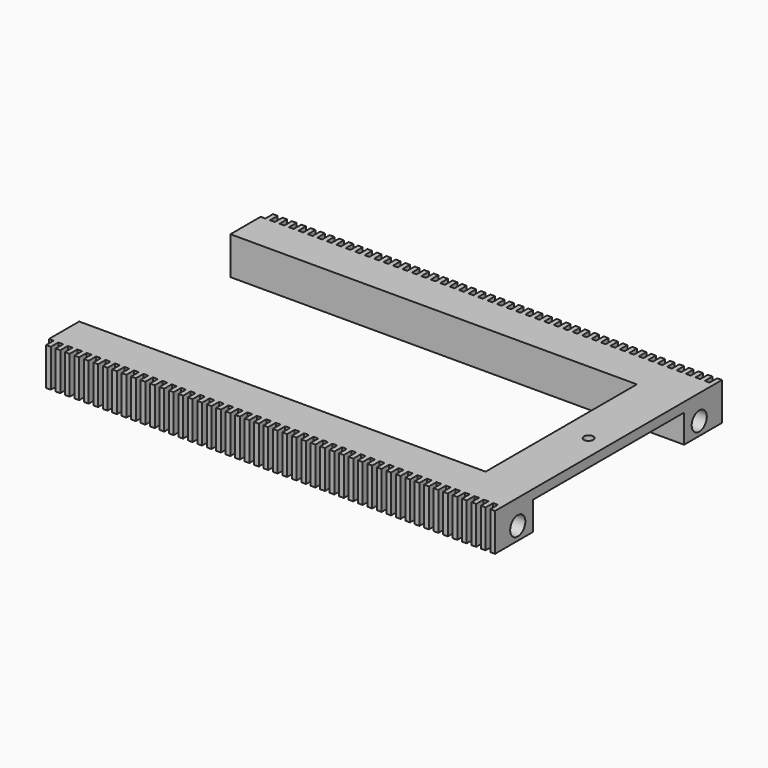
from build123d import *

# Parameters (mm, degrees)
F0_W     = 304.8
F0_H     = 190.5
F0_W_2   = 266.7
F0_H_2   = 127
F1_DEPTH = 6.35
F2_W     = 31.75
F2_H     = 19.05
F2_R     = 6.35
F3_DEPTH = 304.8
F4_W     = 3.175
F4_H     = 6.35
F5_DEPTH = 25.401
F6_R     = 3.175
F7_DEPTH = 25.401
F8_W     = 6.35
F8_H     = 127
F9_DEPTH = 25.401


with BuildPart() as f1:
    # F0 (on Top) → F1 (new body)
    with BuildSketch(Plane.XY):
        with Locations((152.4, 95.25)):
            Rectangle(F0_W, F0_H)
        with Locations((139.7, 95.25)):
            Rectangle(F0_W_2, F0_H_2, mode=Mode.SUBTRACT)
    extrude(amount=F1_DEPTH)

    # F2 (on face) → F3 (join, through all)
    with BuildSketch(Plane.YZ.offset(304.8)):
        with Locations((15.875, -9.525)):
            Rectangle(F2_W, F2_H)
        with Locations((19.05, -10.16)):
            Circle(F2_R, mode=Mode.SUBTRACT)
        with Locations((174.625, -9.525)):
            Rectangle(F2_W, F2_H)
        with Locations((171.45, -10.16)):
            Circle(F2_R, mode=Mode.SUBTRACT)
    extrude(amount=-F3_DEPTH)

    # F4 (on face) → F5 (cut, through all)
    with BuildSketch(Plane.XY.offset(6.35)):
        with Locations((1.5875, 187.325)):
            Rectangle(F4_W, F4_H)
        with Locations((7.9375, 187.325)):
            Rectangle(F4_W, F4_H)
        with Locations((14.2875, 187.325)):
            Rectangle(F4_W, F4_H)
        with Locations((20.6375, 187.325)):
            Rectangle(F4_W, F4_H)
        with Locations((26.9875, 187.325)):
            Rectangle(F4_W, F4_H)
        with Locations((33.3375, 187.325)):
            Rectangle(F4_W, F4_H)
        with Locations((39.6875, 187.325)):
            Rectangle(F4_W, F4_H)
        with Locations((46.0375, 187.325)):
            Rectangle(F4_W, F4_H)
        with Locations((52.3875, 187.325)):
            Rectangle(F4_W, F4_H)
        with Locations((58.7375, 187.325)):
            Rectangle(F4_W, F4_H)
        with Locations((65.0875, 187.325)):
            Rectangle(F4_W, F4_H)
        with Locations((71.4375, 187.325)):
            Rectangle(F4_W, F4_H)
        with Locations((77.7875, 187.325)):
            Rectangle(F4_W, F4_H)
        with Locations((84.1375, 187.325)):
            Rectangle(F4_W, F4_H)
        with Locations((90.4875, 187.325)):
            Rectangle(F4_W, F4_H)
        with Locations((96.8375, 187.325)):
            Rectangle(F4_W, F4_H)
        with Locations((103.1875, 187.325)):
            Rectangle(F4_W, F4_H)
        with Locations((109.5375, 187.325)):
            Rectangle(F4_W, F4_H)
        with Locations((115.8875, 187.325)):
            Rectangle(F4_W, F4_H)
        with Locations((122.2375, 187.325)):
            Rectangle(F4_W, F4_H)
        with Locations((128.5875, 187.325)):
            Rectangle(F4_W, F4_H)
        with Locations((134.9375, 187.325)):
            Rectangle(F4_W, F4_H)
        with Locations((141.2875, 187.325)):
            Rectangle(F4_W, F4_H)
        with Locations((147.6375, 187.325)):
            Rectangle(F4_W, F4_H)
        with Locations((153.9875, 187.325)):
            Rectangle(F4_W, F4_H)
        with Locations((160.3375, 187.325)):
            Rectangle(F4_W, F4_H)
        with Locations((166.6875, 187.325)):
            Rectangle(F4_W, F4_H)
        with Locations((173.0375, 187.325)):
            Rectangle(F4_W, F4_H)
        with Locations((179.3875, 187.325)):
            Rectangle(F4_W, F4_H)
        with Locations((185.7375, 187.325)):
            Rectangle(F4_W, F4_H)
        with Locations((192.0875, 187.325)):
            Rectangle(F4_W, F4_H)
        with Locations((198.4375, 187.325)):
            Rectangle(F4_W, F4_H)
        with Locations((204.7875, 187.325)):
            Rectangle(F4_W, F4_H)
        with Locations((211.1375, 187.325)):
            Rectangle(F4_W, F4_H)
        with Locations((217.4875, 187.325)):
            Rectangle(F4_W, F4_H)
        with Locations((223.8375, 187.325)):
            Rectangle(F4_W, F4_H)
        with Locations((230.1875, 187.325)):
            Rectangle(F4_W, F4_H)
        with Locations((236.5375, 187.325)):
            Rectangle(F4_W, F4_H)
        with Locations((242.8875, 187.325)):
            Rectangle(F4_W, F4_H)
        with Locations((249.2375, 187.325)):
            Rectangle(F4_W, F4_H)
        with Locations((255.5875, 187.325)):
            Rectangle(F4_W, F4_H)
        with Locations((261.9375, 187.325)):
            Rectangle(F4_W, F4_H)
        with Locations((268.2875, 187.325)):
            Rectangle(F4_W, F4_H)
        with Locations((274.6375, 187.325)):
            Rectangle(F4_W, F4_H)
        with Locations((280.9875, 187.325)):
            Rectangle(F4_W, F4_H)
        with Locations((287.3375, 187.325)):
            Rectangle(F4_W, F4_H)
        with Locations((293.6875, 187.325)):
            Rectangle(F4_W, F4_H)
        with Locations((300.0375, 187.325)):
            Rectangle(F4_W, F4_H)
        with Locations((65.0875, 3.175)):
            Rectangle(F4_W, F4_H)
        with Locations((90.4875, 3.175)):
            Rectangle(F4_W, F4_H)
        with Locations((84.1375, 3.175)):
            Rectangle(F4_W, F4_H)
        with Locations((58.7375, 3.175)):
            Rectangle(F4_W, F4_H)
        with Locations((52.3875, 3.175)):
            Rectangle(F4_W, F4_H)
        with Locations((77.7875, 3.175)):
            Rectangle(F4_W, F4_H)
        with Locations((173.0375, 3.175)):
            Rectangle(F4_W, F4_H)
        with Locations((198.4375, 3.175)):
            Rectangle(F4_W, F4_H)
        with Locations((223.8375, 3.175)):
            Rectangle(F4_W, F4_H)
        with Locations((71.4375, 3.175)):
            Rectangle(F4_W, F4_H)
        with Locations((96.8375, 3.175)):
            Rectangle(F4_W, F4_H)
        with Locations((122.2375, 3.175)):
            Rectangle(F4_W, F4_H)
        with Locations((147.6375, 3.175)):
            Rectangle(F4_W, F4_H)
        with Locations((46.0375, 3.175)):
            Rectangle(F4_W, F4_H)
        with Locations((242.8875, 3.175)):
            Rectangle(F4_W, F4_H)
        with Locations((141.2875, 3.175)):
            Rectangle(F4_W, F4_H)
        with Locations((166.6875, 3.175)):
            Rectangle(F4_W, F4_H)
        with Locations((192.0875, 3.175)):
            Rectangle(F4_W, F4_H)
        with Locations((217.4875, 3.175)):
            Rectangle(F4_W, F4_H)
        with Locations((115.8875, 3.175)):
            Rectangle(F4_W, F4_H)
        with Locations((249.2375, 3.175)):
            Rectangle(F4_W, F4_H)
        with Locations((268.2875, 3.175)):
            Rectangle(F4_W, F4_H)
        with Locations((39.6875, 3.175)):
            Rectangle(F4_W, F4_H)
        with Locations((236.5375, 3.175)):
            Rectangle(F4_W, F4_H)
        with Locations((261.9375, 3.175)):
            Rectangle(F4_W, F4_H)
        with Locations((134.9375, 3.175)):
            Rectangle(F4_W, F4_H)
        with Locations((160.3375, 3.175)):
            Rectangle(F4_W, F4_H)
        with Locations((185.7375, 3.175)):
            Rectangle(F4_W, F4_H)
        with Locations((211.1375, 3.175)):
            Rectangle(F4_W, F4_H)
        with Locations((109.5375, 3.175)):
            Rectangle(F4_W, F4_H)
        with Locations((33.3375, 3.175)):
            Rectangle(F4_W, F4_H)
        with Locations((179.3875, 3.175)):
            Rectangle(F4_W, F4_H)
        with Locations((204.7875, 3.175)):
            Rectangle(F4_W, F4_H)
        with Locations((230.1875, 3.175)):
            Rectangle(F4_W, F4_H)
        with Locations((255.5875, 3.175)):
            Rectangle(F4_W, F4_H)
        with Locations((103.1875, 3.175)):
            Rectangle(F4_W, F4_H)
        with Locations((128.5875, 3.175)):
            Rectangle(F4_W, F4_H)
        with Locations((153.9875, 3.175)):
            Rectangle(F4_W, F4_H)
        with Locations((274.6375, 3.175)):
            Rectangle(F4_W, F4_H)
        with Locations((280.9875, 3.175)):
            Rectangle(F4_W, F4_H)
        with Locations((26.9875, 3.175)):
            Rectangle(F4_W, F4_H)
        with Locations((14.2875, 3.175)):
            Rectangle(F4_W, F4_H)
        with Locations((20.6375, 3.175)):
            Rectangle(F4_W, F4_H)
        with Locations((293.6875, 3.175)):
            Rectangle(F4_W, F4_H)
        with Locations((287.3375, 3.175)):
            Rectangle(F4_W, F4_H)
        with Locations((7.9375, 3.175)):
            Rectangle(F4_W, F4_H)
        with Locations((1.5875, 3.175)):
            Rectangle(F4_W, F4_H)
        with Locations((300.0375, 3.175)):
            Rectangle(F4_W, F4_H)
    extrude(amount=-F5_DEPTH, mode=Mode.SUBTRACT)

    # F6 (on face) → F7 (cut, through all)
    with BuildSketch(Plane.XY.offset(6.35)):
        with Locations((291.465, 95.25)):
            Circle(F6_R)
    extrude(amount=-F7_DEPTH, mode=Mode.SUBTRACT)

    # F8 (on face) → F9 (cut, through all)
    with BuildSketch(Plane.XY.offset(6.35)):
        with Locations((3.175, 95.25)):
            Rectangle(F8_W, F8_H)
    extrude(amount=-F9_DEPTH, mode=Mode.SUBTRACT)


solid = f1.part
